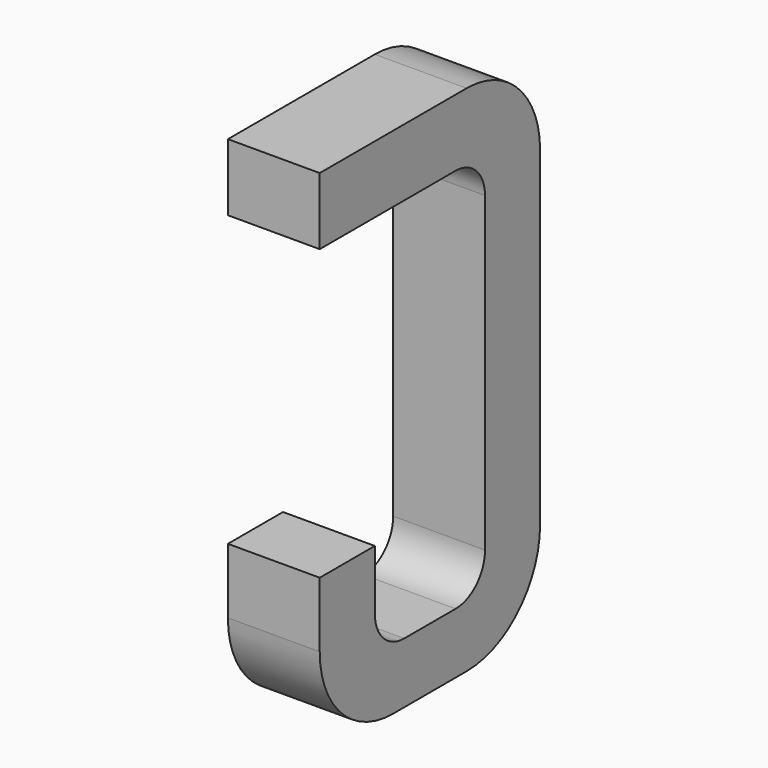
from build123d import *

# Parameters (mm, degrees)
BOX037_W     = 0.5
BOX037_H     = 1.5
BOX037_DEPTH = 2.795
FILLET064_R  = 0.5
FILLET080_R  = 0.5
FILLET074_R  = 0.5
BOX045_W     = 0.75
BOX045_H     = 2.1
BOX045_DEPTH = 1
FILLET065_R  = 0.2
FILLET083_R  = 0.2
FILLET071_R  = 0.2
FILLET063_R  = 0.2
BOX040_W     = 1
BOX040_H     = 1.575
BOX040_DEPTH = 3


with BuildPart() as part:
    # Box037 → Box037 (join)
    with BuildSketch(Plane(origin=(-0.25, 11.125, 0), x_dir=(1, 0, 0), z_dir=(0, 0, 1))):
        with Locations((0.25, 0.75)):
            Rectangle(BOX037_W, BOX037_H)
    extrude(amount=BOX037_DEPTH)

    # Fillet064
    fillet064_edges = [part.edges().sort_by_distance(p)[0] for p in [
        (0, 12.625, 0),
    ]]
    fillet(fillet064_edges, radius=FILLET064_R)

    # Fillet080
    fillet080_edges = [part.edges().sort_by_distance(p)[0] for p in [
        (0, 12.625, 2.795),
    ]]
    fillet(fillet080_edges, radius=FILLET080_R)

    # Fillet074
    fillet074_edges = [part.edges().sort_by_distance(p)[0] for p in [
        (0, 11.125, 0),
    ]]
    fillet(fillet074_edges, radius=FILLET074_R)

    # Box045 → Box045 (cut)
    with BuildSketch(Plane(origin=(-0.5, 11.5, 0.33), x_dir=(0, 1, 0), z_dir=(1, 0, 0))):
        with Locations((0.375, 1.05)):
            Rectangle(BOX045_W, BOX045_H)
    extrude(amount=BOX045_DEPTH, mode=Mode.SUBTRACT)

    # Fillet065
    fillet065_edges = [part.edges().sort_by_distance(p)[0] for p in [
        (0, 11.5, 0.33),
    ]]
    fillet(fillet065_edges, radius=FILLET065_R)

    # Fillet083
    fillet083_edges = [part.edges().sort_by_distance(p)[0] for p in [
        (0, 12.25, 0.33),
    ]]
    fillet(fillet083_edges, radius=FILLET083_R)

    # Fillet071
    fillet071_edges = [part.edges().sort_by_distance(p)[0] for p in [
        (0, 11.5, 2.43),
    ]]
    fillet(fillet071_edges, radius=FILLET071_R)

    # Fillet063
    fillet063_edges = [part.edges().sort_by_distance(p)[0] for p in [
        (0, 12.25, 2.43),
    ]]
    fillet(fillet063_edges, radius=FILLET063_R)

    # Box040 → Box040 (cut)
    with BuildSketch(Plane(origin=(-1, 11, 0.855), x_dir=(0, 1, 0), z_dir=(1, 0, 0))):
        with Locations((0.5, 0.7875)):
            Rectangle(BOX040_W, BOX040_H)
    extrude(amount=BOX040_DEPTH, mode=Mode.SUBTRACT)


with BuildPart() as part_1:
    # Body010 placement: moved
    add(part.part.moved(Location((-2.54, 0, 0))))


solid = part_1.part
